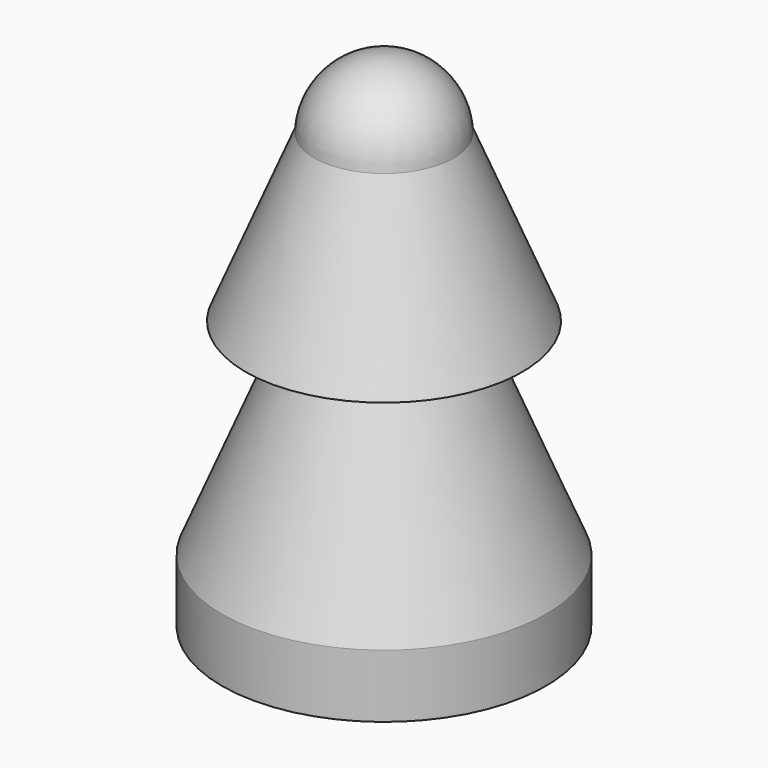
from build123d import *


with BuildPart() as f1:
    # F0 (on Right) → F1 (revolve)
    with BuildSketch(Plane.YZ):
        with BuildLine():
            Line((14.622016, 15.45756), (7.36066, 33.005842))
            ThreePointArc((7.36066, 33.005842), (5.113537, 38.041741), (0, 40.106103))
            Line((0, 40.106103), (0, -12.950929))
            Line((0, -12.950929), (17.128647, -12.950929))
            Line((17.128647, -12.950929), (17.128647, -6.26658))
            Line((17.128647, -6.26658), (9.08707, 13.167238))
            Line((9.08707, 13.167238), (14.622016, 15.45756))
        make_face()
    revolve(axis=Axis((0, 0, 12.846487), (0, 0, -1)))


solid = f1.part
